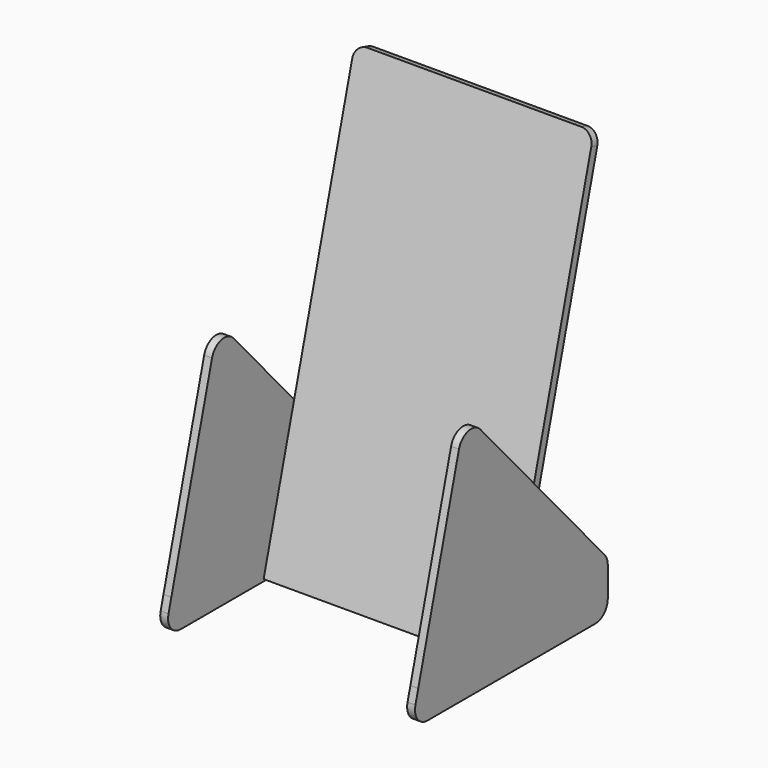
from build123d import *

# Parameters (mm, degrees)
F1_DEPTH = 96.52
F3_DEPTH = 3.175
F9_R     = 5.08


with BuildPart() as f1:
    # F0 (on Right) → F1 (new body)
    with BuildSketch(Plane.YZ):
        Polygon((-3.0668144985, 0.8217504682), (0, 0), (46.0180262192, 171.7416119142), (42.9653809118, 172.6162425231), align=None)
    extrude(amount=F1_DEPTH)

    # F9
    f9_edges = [f1.edges().sort_by_distance(p)[0] for p in [
        (0, 44.491704, 172.178927),
        (96.52, 44.491704, 172.178927),
    ]]
    fillet(f9_edges, radius=F9_R)


with BuildPart() as f3:
    # F2 (on Right) → F3 (new body)
    with BuildSketch(Plane.YZ):
        with BuildLine():
            Line((-49.6407644802, 13.3012027541), (0, 0))
            Line((0, 0), (39.6680262192, 0))
            ThreePointArc((39.6680262192, 0), (44.1581542798, 1.8598719395), (46.0180262192, 6.35))
            Line((46.0180262192, 6.35), (46.0180262192, 18.3586289937))
            ThreePointArc((46.0180262192, 18.3586289937), (45.5998198767, 20.6249749524), (44.4002863752, 22.5928011461))
            Line((44.4002863752, 22.5928011461), (-18.22500464, 92.5850354641))
            ThreePointArc((-18.22500464, 92.5850354641), (-24.4299674117, 94.5277271605), (-29.0908937929, 89.9943642482))
            Line((-29.0908937929, 89.9943642482), (-49.6407644802, 13.3012027541))
        make_face()
        with BuildLine():
            Line((-44.929329899, 0), (0, 0))
            Line((0, 0), (-49.6407644802, 13.3012027541))
            Line((-49.6407644802, 13.3012027541), (-51.062958896, 7.9935009364))
            ThreePointArc((-51.062958896, 7.9935009364), (-49.9671236099, 2.4843649258), (-44.929329899, 0))
        make_face()
    extrude(amount=-F3_DEPTH)


with BuildPart() as f8_1:
    # F8: instance of F3
    add(f3.part.mirror(Plane(origin=(48.26, 42.9653809118, 172.6162425231), x_dir=(0, -0.2588190451, -0.9659258263), z_dir=(-1, 0, 0))))


solid = Compound([f1.part, f3.part, f8_1.part])
